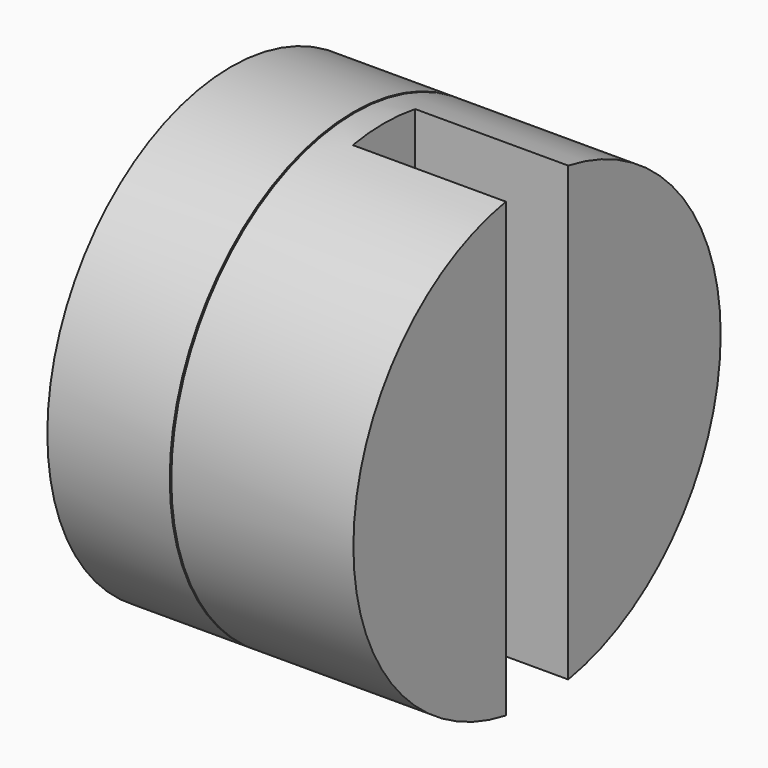
from build123d import *

# Parameters (mm, degrees)
F2_W          = 40
F2_H          = 10.2
F3_DEPTH      = 30.001
F3_DEPTH_BACK = 30.001


with BuildPart() as f1:
    # F0 (on Top) → F1 (revolve)
    with BuildSketch(Plane.XY):
        Polygon((8, -14.5792039363), (0, -14.8189625977), (0, -30), (16, -30), (16, -25.2), (8, -25.2), align=None)
    revolve(axis=Axis((26.4397524297, 0, 0), (1, 0, 0)))


with BuildPart() as f1b:
    # F0 (on Top) → F1, piece 2 (revolve)
    with BuildSketch(Plane.XY):
        Polygon((8.2, -14.3731201708), (8.2, -25), (16.2, -25), (16.2, -30), (40, -30), (40, -5), (2, -5), (2, -14.5589331334), align=None)
    revolve(axis=Axis((26.4397524297, 0, 0), (1, 0, 0)))

    # F2 (on Top) → F3 (cut, two sides)
    with BuildSketch(Plane.XY) as f3_sk:
        with Locations((40, 0)):
            Rectangle(F2_W, F2_H)
    extrude(amount=-F3_DEPTH, mode=Mode.SUBTRACT)
    extrude(f3_sk.sketch, amount=F3_DEPTH_BACK, mode=Mode.SUBTRACT)


solid = Compound([f1.part, f1b.part])
